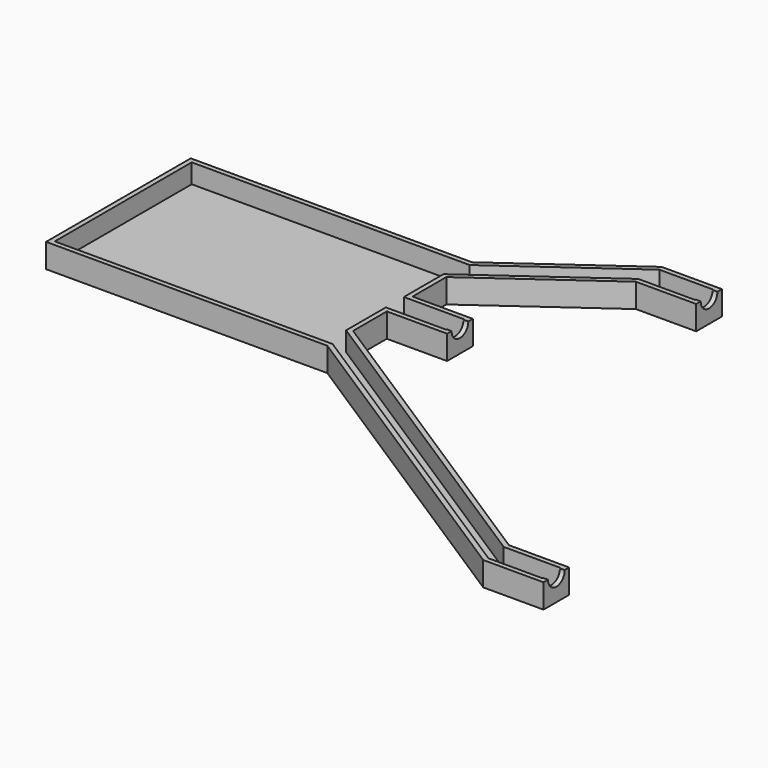
from build123d import *

# Parameters (mm, degrees)
PAD_DEPTH       = 6
THICKNESS_T     = -1.2
SKETCH001_R     = 2.6
POCKET_DEPTH    = 1.2
SKETCH002_R     = 2.6
POCKET001_DEPTH = 1.2
SKETCH003_R     = 2.6
POCKET002_DEPTH = 1.2


with BuildPart() as part:
    # Sketch → Pad (new body)
    with BuildSketch(Plane.XY):
        Polygon((80, -74), (65, -74), (-15, -22.5), (-85, -22.5), (-85, 22.5), (-15, 22.5), (15, 44), (30, 44), (30, 36), (15, 36), (-15, 14.5), (-15, 4), (0, 4), (0, -4), (-15, -4), (-15, -14.5), (65, -66), (80, -66), align=None)
    extrude(amount=PAD_DEPTH)

    # Thickness
    thickness_openings = [part.faces().sort_by_distance(p)[0] for p in [
        (-29.840547, -5.671982, 6),
    ]]
    offset(amount=THICKNESS_T, openings=thickness_openings, kind=Kind.INTERSECTION)

    # Sketch001 (on Face13 of Thickness) → Pocket (cut)
    with BuildSketch(Plane.YZ):
        with Locations((0, 6)):
            Circle(SKETCH001_R)
    extrude(amount=-POCKET_DEPTH, mode=Mode.SUBTRACT)

    # Sketch002 (on Face12 of Pocket) → Pocket001 (cut)
    with BuildSketch(Plane.YZ.offset(30)):
        with Locations((40, 6)):
            Circle(SKETCH002_R)
    extrude(amount=-POCKET001_DEPTH, mode=Mode.SUBTRACT)

    # Sketch003 (on Face2 of Pocket001) → Pocket002 (cut)
    with BuildSketch(Plane.YZ.offset(80)):
        with Locations((-70, 6)):
            Circle(SKETCH003_R)
    extrude(amount=-POCKET002_DEPTH, mode=Mode.SUBTRACT)


solid = part.part
